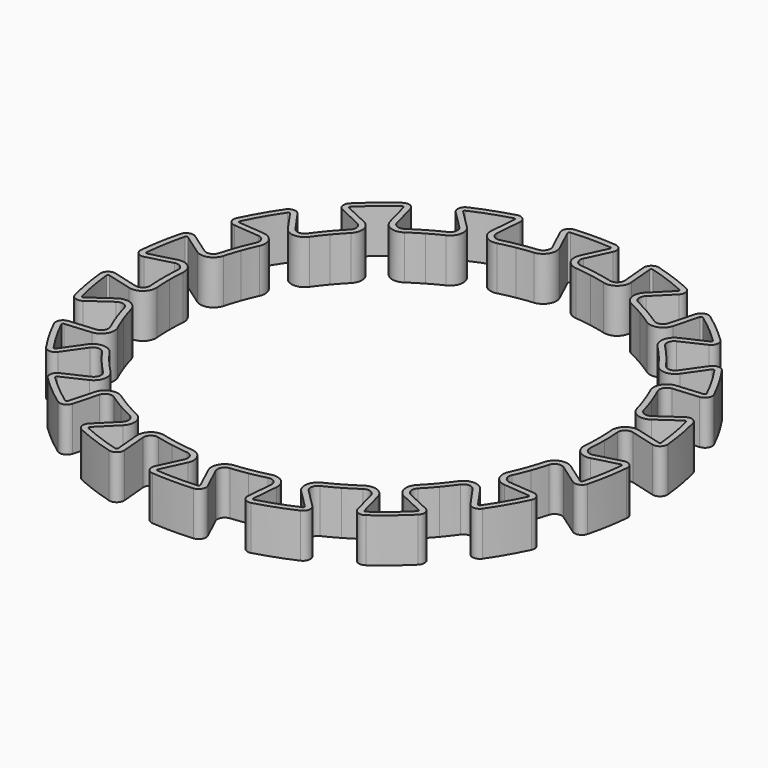
from build123d import *

# Parameters (mm, degrees)
F6_DEPTH = 6
F7_COUNT = 18
F8_T     = -0.8


with BuildPart() as f6:
    # F5 (on Top) → F6 (new body)
    with BuildSketch(Plane.XY):
        with BuildLine():
            Line((0, 0), (5.20944533, 29.5442325904))
            ThreePointArc((5.20944533, 29.5442325904), (4.0682991105, 29.7228690127), (2.9211221995, 29.857445388))
            ThreePointArc((2.9211221995, 29.857445388), (2.1499142397, 30.3571423167), (2.1121851525, 31.2753118293))
            Line((2.1121851525, 31.2753118293), (3.6034341854, 34.4733057007))
            ThreePointArc((3.6034341854, 34.4733057007), (3.5606083974, 35.4003036184), (2.7741871526, 35.8929503613))
            ThreePointArc((2.7741871526, 35.8929503613), (0, 36), (-2.7741871526, 35.8929503613))
            ThreePointArc((-2.7741871526, 35.8929503613), (-3.5606083974, 35.4003036184), (-3.6034341854, 34.4733057007))
            Line((-3.6034341854, 34.4733057007), (-2.1121851525, 31.2753118293))
            ThreePointArc((-2.1121851525, 31.2753118293), (-2.1499142397, 30.3571423167), (-2.9211221995, 29.857445388))
            ThreePointArc((-2.9211221995, 29.857445388), (-4.0682991105, 29.7228690127), (-5.20944533, 29.5442325904))
            Line((-5.20944533, 29.5442325904), (0, 0))
        make_face()
    extrude(amount=F6_DEPTH)

    # F7: F6 ×18 about axis
    f7_axis = Axis((0, 0, 3), (0, 0, 1))


with BuildPart() as f6_1:
    add(f6.part)
    for i in range(1, F7_COUNT):
        add(f6.part.rotate(f7_axis, i * 360 / F7_COUNT))

    # F8
    f8_openings = [f6_1.faces().sort_by_distance(p)[0] for p in [
        (0, 0, 6),
        (0, 0, 0),
    ]]
    offset(amount=F8_T, openings=f8_openings)


solid = f6_1.part
